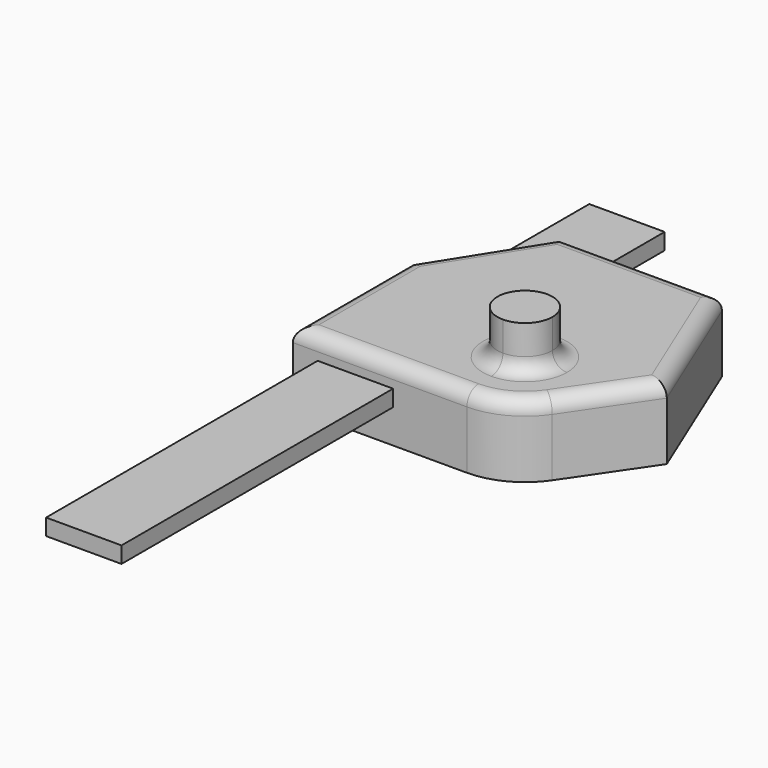
from build123d import *

# Parameters (mm, degrees)
F1_DEPTH = 25
F2_DEPTH = 40.2
F3_R     = 5
F4_W     = 25.9972466156
F4_H     = 5.6327376515
F5_DEPTH = 86.6361440549
F6_DEPTH = 117


with BuildPart() as f1:
    # F0 (on Top) → F1 (new body)
    with BuildSketch(Plane.XY):
        with BuildLine():
            Line((-30, -25), (30, -25))
            ThreePointArc((30, -25), (5, 0), (30, 25))
            Line((30, 25), (-30, 25))
            Line((-30, 25), (-30, -25))
        make_face()
        with BuildLine():
            Line((-30, 25), (30, 25))
            ThreePointArc((30, 25), (47.6776695297, 17.6776695297), (55, 0))
            ThreePointArc((55, 0), (53.8905940542, -7.364748179), (50.6608387408, -14.0758567244))
            Line((50.6608387408, -14.0758567244), (68.8215934889, 12.5808813065))
            Line((68.8215934889, 12.5808813065), (48.5793736348, 61.6351440549))
            Line((48.5793736348, 61.6351440549), (-6.9325999357, 61.6351440549))
            Line((-6.9325999357, 61.6351440549), (-30, 25))
        make_face()
        with BuildLine():
            Line((30, -9.4787223474), (30, -25))
            ThreePointArc((30, -25), (41.6855376832, -22.1008644413), (50.6608387408, -14.0758567244))
            ThreePointArc((50.6608387408, -14.0758567244), (53.8905940542, -7.364748179), (55, 0))
            ThreePointArc((55, 0), (47.6776695297, 17.6776695297), (30, 25))
            Line((30, 25), (30, 9.4787223474))
            ThreePointArc((30, 9.4787223474), (36.7024688488, 6.7024688488), (39.4787223474, 0))
            ThreePointArc((39.4787223474, 0), (36.7024688488, -6.7024688488), (30, -9.4787223474))
        make_face()
        with BuildLine():
            ThreePointArc((30, 25), (5, 0), (30, -25))
            Line((30, -25), (30, -9.4787223474))
            ThreePointArc((30, -9.4787223474), (20.5212776526, 0), (30, 9.4787223474))
            Line((30, 9.4787223474), (30, 25))
        make_face()
    extrude(amount=F1_DEPTH)

    # F0 (on Top) → F2 (join)
    with BuildSketch(Plane.XY):
        with BuildLine():
            Line((30, 9.4787223474), (30, -9.4787223474))
            ThreePointArc((30, -9.4787223474), (36.7024688488, -6.7024688488), (39.4787223474, 0))
            ThreePointArc((39.4787223474, 0), (36.7024688488, 6.7024688488), (30, 9.4787223474))
        make_face()
        with BuildLine():
            ThreePointArc((30, 9.4787223474), (20.5212776526, 0), (30, -9.4787223474))
            Line((30, -9.4787223474), (30, 9.4787223474))
        make_face()
    extrude(amount=F2_DEPTH)

    # F3
    f3_edges = [f1.edges().sort_by_distance(p)[0] for p in [
        (0, -25, 25),
        (-30, 0, 25),
        (-18.4663, 43.317572, 25),
        (20.823387, 61.635144, 25),
        (58.700484, 37.108013, 25),
        (20.521278, 0, 25),
    ]]
    fillet(f3_edges, radius=F3_R)

    # F4 (on face) → F5 (cut, through all)
    with BuildSketch(Plane.XZ.offset(25)):
        Polygon((-22.799067764, 2.7424353175), (-18.7965290561, 2.7424353175), (-16.7952597022, 6.2087355182), (-18.7965290561, 9.6750357188), (-22.799067764, 9.6750357188), (-24.800337118, 6.2087355182), align=None)
        with Locations((-8.4491046146, 14.4411977381)):
            Rectangle(F4_W, F4_H)
    extrude(amount=-F5_DEPTH, mode=Mode.SUBTRACT)


with BuildPart() as f6:
    # F4 (on face) → F6 (new body, symmetric)
    with BuildSketch(Plane.XZ.offset(25)):
        with Locations((-8.4491046146, 14.4411977381)):
            Rectangle(F4_W, F4_H)
    extrude(amount=F6_DEPTH, both=True)


solid = Compound([f1.part, f6.part])
